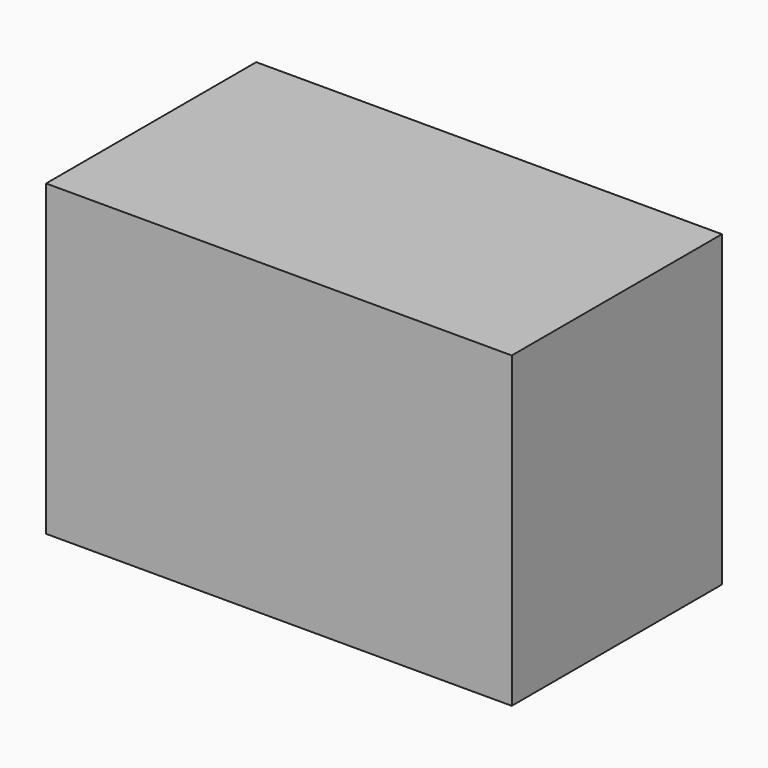
from build123d import *

# Parameters (mm, degrees)
F0_W = 34.102626
F0_H = 19.237377


with BuildPart() as f2:
    # F2: sweep along a path in F1
    with BuildLine(Plane.XZ) as f2_path:
        Line((0, 0), (0, 22.589346))
    # F0 (on Top) → F2 (sweep)
    with BuildSketch(Plane.XY):
        with Locations((17.051313, 7.432622)):
            Rectangle(F0_W, F0_H)
    sweep(path=f2_path.line)


solid = f2.part
